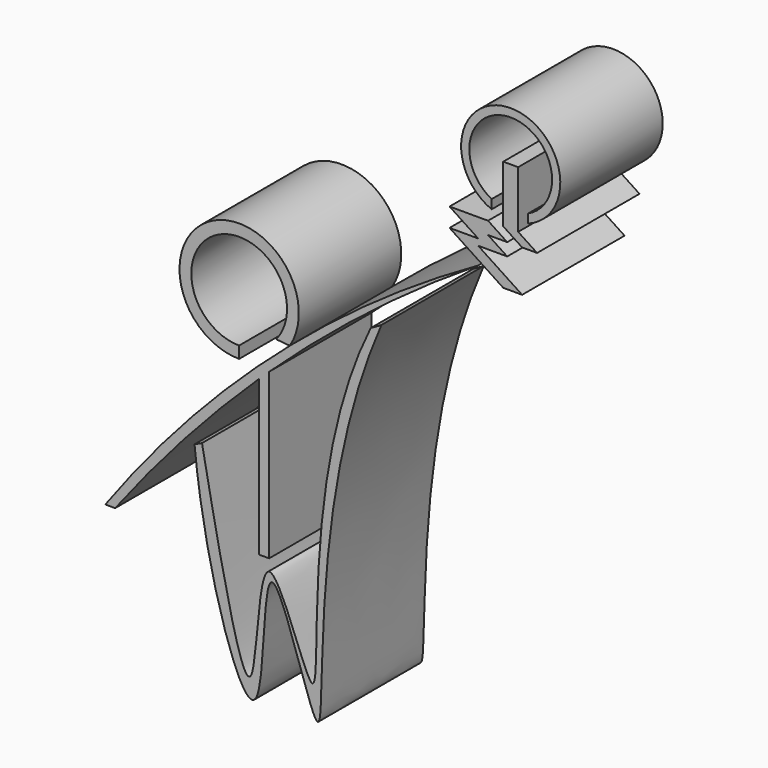
from build123d import *

# Parameters (mm, degrees)
F1_DEPTH = 25.4


with BuildPart() as f1:
    # F0 (on Front) → F1 (new body)
    with BuildSketch(Plane.XZ):
        with BuildLine():
            Line((-12.1260912154, 17.3469602549), (-9.4319894477, 17.0973489825))
            ThreePointArc((-9.4319894477, 17.0973489825), (-25.2147394402, 33.7179713226), (-19.4832775742, 11.5258414298))
            Line((-19.4832775742, 11.5258414298), (-19.4832775742, 13.8656916097))
            ThreePointArc((-19.4832775742, 13.8656916097), (-23.5380494049, 31.9497378774), (-12.1260912154, 17.3469602549))
        make_face()
    extrude(amount=F1_DEPTH)


with BuildPart() as f1b:
    # F0 (on Front) → F1, piece 2 (new body)
    with BuildSketch(Plane.XZ):
        with BuildLine():
            ThreePointArc((-13.5250920432, 11.2257702138), (6.447088509, 28.2279383753), (27.9399435968, 43.2618632912))
            ThreePointArc((27.9399435968, 43.2618632912), (8.6113292142, 31.0975285002), (-9.4319894477, 17.0973489825))
            ThreePointArc((-9.4319894477, 17.0973489825), (-28.8859758125, -1.6556501415), (-46.0352376104, -22.5371103734))
            Line((-46.0352376104, -22.5371103734), (-44.0885238349, -22.5371103734))
            ThreePointArc((-44.0885238349, -22.5371103734), (-30.4444874395, -6.0710719507), (-15.5691429974, 9.2916842548))
            ThreePointArc((-15.5691429974, 9.2916842548), (-14.5495771801, 10.2613267413), (-13.5250920432, 11.2257702138))
        make_face()
        with BuildLine():
            Line((-13.5250920432, -21.3694699444), (-13.5250920432, 11.2257702138))
            ThreePointArc((-13.5250920432, 11.2257702138), (-14.5495771801, 10.2613267413), (-15.5691429974, 9.2916842548))
            Line((-15.5691429974, 9.2916842548), (-15.5691429974, -21.3694699444))
            Line((-15.5691429974, -21.3694699444), (-13.5250920432, -21.3694699444))
        make_face()
    extrude(amount=F1_DEPTH)


with BuildPart() as f1c:
    # F0 (on Front) → F1, piece 3 (new body)
    with BuildSketch(Plane.XZ):
        with BuildLine():
            add(Edge.make_bspline(
                [(8.7351379915, 26.6208369284), (-7.2060106323, -10.1119577886), (2.2807480493, -75.3727510588), (-15.5800335142, -7.6164624317), (-13.3466355849, -67.8945118882), (-26.3084992767, -27.8958026321), (-28.3301509918, -6.2605386278)],
                knots=[0, 0, 0, 0, 0.3515693723, 0.5456027494, 0.7348182571, 1, 1, 1, 1], degree=3))
            Line((8.7351379915, 26.6208369284), (6.6271955541, 25.4144743084))
            add(Edge.make_bspline(
                [(6.6271955541, 25.4144743084), (-8.2987481729, -4.7960397789), (1.1038209178, -65.1887760685), (-15.7454442308, -8.6759232085), (-15.838194033, -61.8337528844), (-22.8708859313, -26.2985006771), (-26.8504470588, -5.5747698062)],
                knots=[0, 0, 0, 0, 0.3541520805, 0.5398187892, 0.7308559347, 1, 1, 1, 1], degree=3))
            Line((-26.8504470588, -5.5747698062), (-28.3301509918, -6.2605386278))
        make_face()
    extrude(amount=F1_DEPTH)


with BuildPart() as f1d:
    # F0 (on Front) → F1, piece 4 (new body)
    with BuildSketch(Plane.XZ):
        Polygon((22.2582388669, 47.9868128896), (32.9125970602, 40.9816093743), (36.6630792152, 40.9816093743), (27.9399435968, 46.7170407527), (33.7059322978, 46.7170407527), (29.8994686455, 49.2197773864), (33.7059322978, 49.2197773864), (29.8994686455, 51.72251402), (22.2582388669, 51.72251402), (27.9399435968, 47.9868128896), align=None)
    extrude(amount=F1_DEPTH)


with BuildPart() as f1e:
    # F0 (on Front) → F1, piece 5 (new body)
    with BuildSketch(Plane.XZ):
        Polygon((32.9125970602, 63.0197152495), (32.9125970602, 51.72251402), (36.6630792152, 49.2565850264), (39.6282970905, 49.2565850264), (35.8778149355, 51.72251402), (35.8778149355, 63.0197152495), align=None)
    extrude(amount=F1_DEPTH)


with BuildPart() as f1f:
    # F0 (on Front) → F1, piece 6 (new body)
    with BuildSketch(Plane.XZ):
        with BuildLine():
            ThreePointArc((37.8705035337, 53.8163572143), (34.5616033975, 72.8559647377), (30.6106042117, 53.9391711354))
            Line((30.6106042117, 53.9391711354), (30.6106042117, 55.7311661541))
            ThreePointArc((30.6106042117, 55.7311661541), (34.5676227044, 71.2304661942), (37.8705035337, 55.5787162821))
            Line((37.8705035337, 55.5787162821), (37.8705035337, 53.8163572143))
        make_face()
    extrude(amount=F1_DEPTH)


solid = Compound([f1.part, f1b.part, f1c.part, f1d.part, f1e.part, f1f.part])
